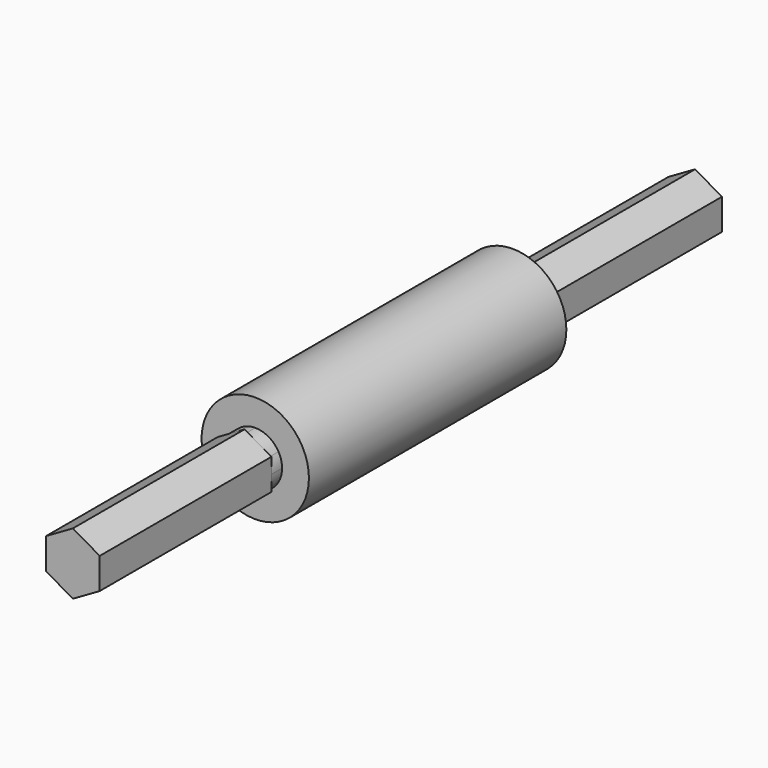
from build123d import *

# Parameters (mm, degrees)
F0_R          = 12.7
F1_DEPTH      = 76.2
F2_DEPTH      = 79.375
F2_DEPTH_BACK = 3.175
F4_DEPTH      = 50.8
F6_DEPTH      = 50.8


with BuildPart() as f1:
    # F0 (on Front) → F1 (new body)
    with BuildSketch(Plane.XZ):
        Circle(F0_R)
        Polygon((3.6661742094, 6.35), (5.499261351, 3.174999936), (7.3323484187, 0), (5.4992613448, -3.1749999467), (3.6661742094, -6.35), (0, -6.35), (-3.6661742094, -6.35), (-5.4992613166, -3.1749999956), (-7.3323484187, 0), (-5.4992612953, 3.1750000324), (-3.6661742094, 6.35), (0, 6.35), align=None, mode=Mode.SUBTRACT)
        with BuildLine():
            ThreePointArc((0, 6.35), (3.175000032, 5.4992612955), (5.499261351, 3.174999936))
            Line((5.499261351, 3.174999936), (3.6661742094, 6.35))
            Line((3.6661742094, 6.35), (0, 6.35))
        make_face()
        with BuildLine():
            ThreePointArc((5.499261351, 3.174999936), (6.1336290065, 1.6435009007), (6.35, 0))
            ThreePointArc((6.35, 0), (6.1336290049, -1.6435009067), (5.4992613448, -3.1749999467))
            Line((5.4992613448, -3.1749999467), (7.3323484187, 0))
            Line((7.3323484187, 0), (5.499261351, 3.174999936))
        make_face()
        with BuildLine():
            ThreePointArc((-5.4992612953, 3.1750000324), (-3.1749999838, 5.4992613234), (0, 6.35))
            Line((0, 6.35), (-3.6661742094, 6.35))
            Line((-3.6661742094, 6.35), (-5.4992612953, 3.1750000324))
        make_face()
        with BuildLine():
            ThreePointArc((-5.4992613166, -3.1749999956), (-6.35, 2.13e-08), (-5.4992612953, 3.1750000324))
            Line((-5.4992612953, 3.1750000324), (-7.3323484187, 0))
            Line((-7.3323484187, 0), (-5.4992613166, -3.1749999956))
        make_face()
        with BuildLine():
            Line((-3.6661742094, -6.35), (0, -6.35))
            ThreePointArc((0, -6.35), (-3.1750000022, -5.4992613128), (-5.4992613166, -3.1749999956))
            Line((-5.4992613166, -3.1749999956), (-3.6661742094, -6.35))
        make_face()
        with BuildLine():
            Line((3.6661742094, -6.35), (5.4992613448, -3.1749999467))
            ThreePointArc((5.4992613448, -3.1749999467), (3.1750000266, -5.4992612987), (0, -6.35))
            Line((0, -6.35), (3.6661742094, -6.35))
        make_face()
    extrude(amount=F1_DEPTH)

    # F0 (on Front) → F2 (join, two sides)
    with BuildSketch(Plane.XZ) as f2_sk:
        with BuildLine():
            ThreePointArc((5.4992613448, -3.1749999467), (6.1336290049, -1.6435009067), (6.35, 0))
            ThreePointArc((6.35, 0), (6.1336290065, 1.6435009007), (5.499261351, 3.174999936))
            ThreePointArc((5.499261351, 3.174999936), (3.175000032, 5.4992612955), (0, 6.35))
            ThreePointArc((0, 6.35), (-3.1749999838, 5.4992613234), (-5.4992612953, 3.1750000324))
            ThreePointArc((-5.4992612953, 3.1750000324), (-6.35, 2.13e-08), (-5.4992613166, -3.1749999956))
            ThreePointArc((-5.4992613166, -3.1749999956), (-3.1750000022, -5.4992613128), (0, -6.35))
            ThreePointArc((0, -6.35), (3.1750000266, -5.4992612987), (5.4992613448, -3.1749999467))
        make_face()
    extrude(amount=F2_DEPTH)
    extrude(f2_sk.sketch, amount=-F2_DEPTH_BACK)

    # F3 (on face) → F4 (join)
    with BuildSketch(Plane(origin=(0, 3.175, 0), x_dir=(-1, 0, 0), z_dir=(0, 1, 0))):
        Polygon((6.35, -3.6661742094), (6.35, 3.6661742094), (0, 7.3323484187), (-6.35, 3.6661742094), (-6.35, -3.6661742094), (0, -7.3323484187), align=None)
    extrude(amount=F4_DEPTH)

    # F5 (on face) → F6 (join)
    with BuildSketch(Plane.XZ.offset(79.375)):
        Polygon((-6.35, 3.6661742094), (-6.35, -3.6661742094), (0, -7.3323484187), (6.35, -3.6661742094), (6.35, 3.6661742094), (0, 7.3323484187), align=None)
    extrude(amount=F6_DEPTH)


solid = f1.part
